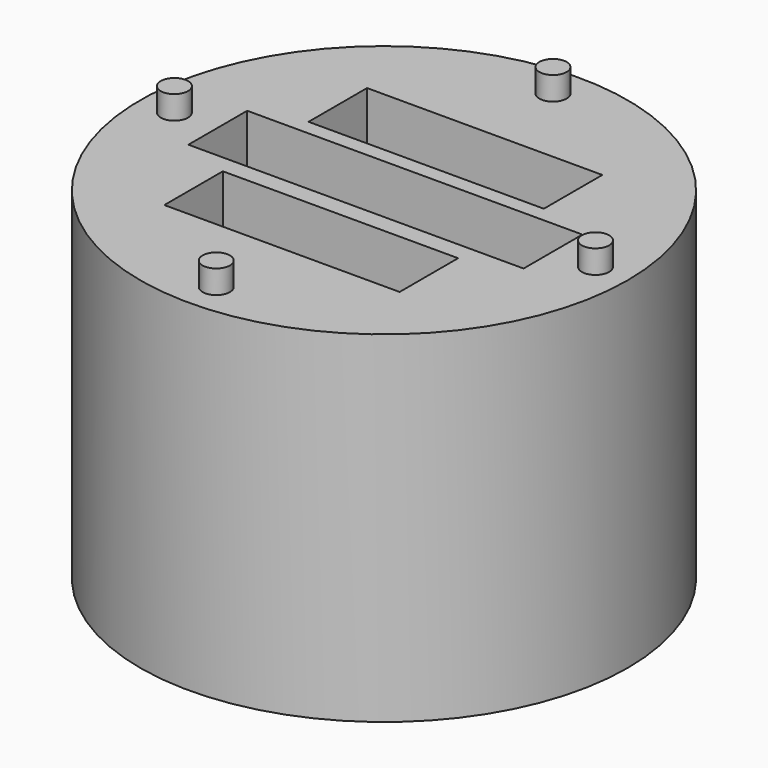
from build123d import *

# Parameters (mm, degrees)
F0_R     = 15.875
F1_DEPTH = 22.225
F3_R     = 0.889
F5_DEPTH = 23.749
F7_W     = 21.828934
F7_H     = 4.78795
F7_W_2   = 15.322826
F7_H_2   = 4.7625
F6_DEPTH = 22.225


with BuildPart() as f1:
    # F0 (on Top) → F1 (new body)
    with BuildSketch(Plane.XY):
        Circle(F0_R)
    extrude(amount=F1_DEPTH)

    # F3 (on face) → F5 (join)
    with BuildSketch(Plane(origin=(0, 0, 0), x_dir=(1, 0, 0), z_dir=(0, 0, -1))):
        with Locations((0, 13.652203)):
            Circle(F3_R)
        with Locations((-13.659894, -0.015021)):
            Circle(F3_R)
        with Locations((0.062219, -13.682245)):
            Circle(F3_R)
        with Locations((13.674476, -0.124876)):
            Circle(F3_R)
    extrude(amount=-F5_DEPTH)

    # F7 (on face) → F6 (cut)
    with BuildSketch(Plane.XY.offset(22.225)):
        with Locations((0.014928, 0.097281)):
            Rectangle(F7_W, F7_H)
        with Locations((-0.040691, 5.869923)):
            Rectangle(F7_W_2, F7_H_2)
        with Locations((-0.040691, -5.869923)):
            Rectangle(F7_W_2, F7_H_2)
    extrude(amount=-F6_DEPTH, mode=Mode.SUBTRACT)


solid = f1.part
